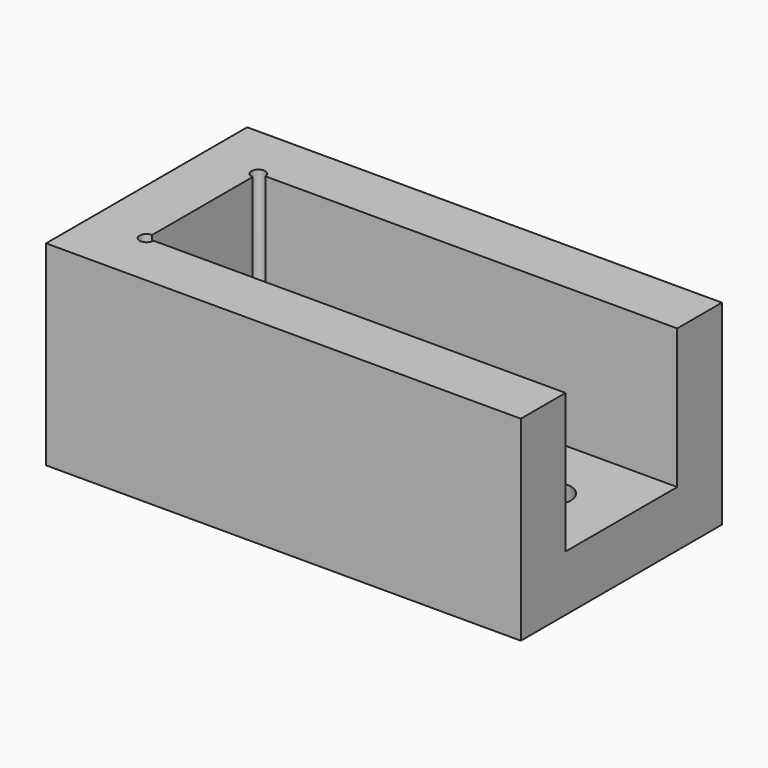
from build123d import *

# Parameters (mm, degrees)
SKETCH_W        = 68
SKETCH_H        = 36
PAD_DEPTH       = 28
POCKET_DEPTH    = 20
SKETCH002_R     = 2.75
POCKET001_DEPTH = 28
POCKET002_DEPTH = 20


with BuildPart() as part:
    # Sketch → Pad (new body)
    with BuildSketch(Plane.XY):
        with Locations((34, 0)):
            Rectangle(SKETCH_W, SKETCH_H)
    extrude(amount=PAD_DEPTH)

    # Sketch001 (on DatumPlane) → Pocket (cut)
    with BuildSketch(Plane.XY.offset(28)):
        with BuildLine():
            Line((68, 10), (68, -10))
            Line((9, -10), (68, -10))
            ThreePointArc((8, -9), (7.292893, -10.707107), (9, -10))
            Line((8, 9), (8, -9))
            ThreePointArc((9, 10), (7.292893, 10.707107), (8, 9))
            Line((68, 10), (9, 10))
        make_face()
    extrude(amount=-POCKET_DEPTH, mode=Mode.SUBTRACT)

    # Sketch002 (on DatumPlane) → Pocket001 (cut)
    with BuildSketch(Plane.XY.offset(28)):
        with Locations((18, 0)):
            Circle(SKETCH002_R)
        with Locations((38, 0)):
            Circle(SKETCH002_R)
        with Locations((58, 0)):
            Circle(SKETCH002_R)
        with Locations((78, 0)):
            Circle(SKETCH002_R)
        with Locations((98, 0)):
            Circle(SKETCH002_R)
    extrude(amount=-POCKET001_DEPTH, mode=Mode.SUBTRACT)

    # Sketch003 (on DatumPlane) → Pocket002 (cut)
    with BuildSketch(Plane.XZ.offset(10)):
        Polygon((8, 8), (8, 10), (6, 8), align=None)
    extrude(amount=-POCKET002_DEPTH, mode=Mode.SUBTRACT)


solid = part.part
